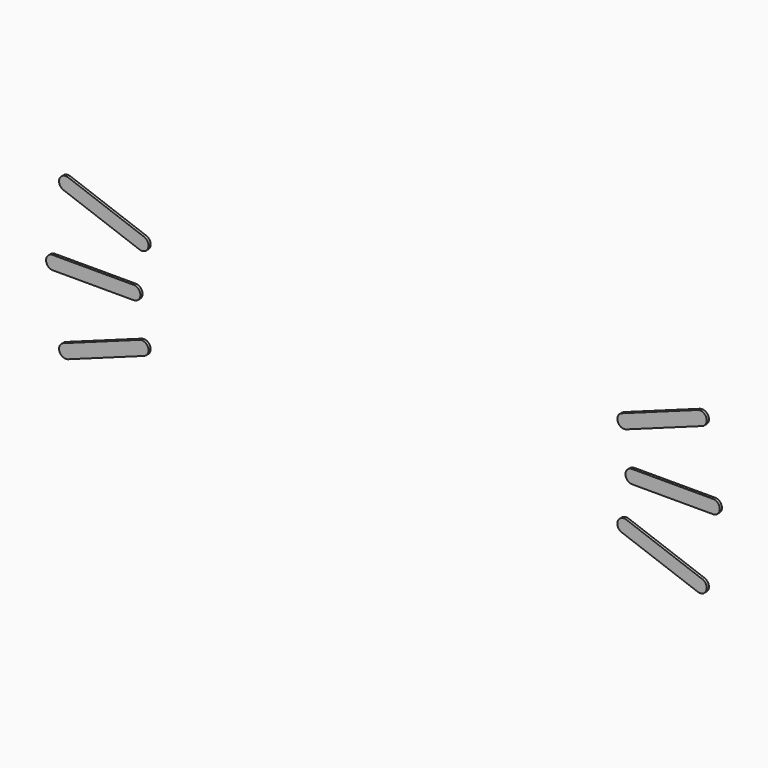
from build123d import *

# Parameters (mm, degrees)
BOX004_W     = 62
BOX004_H     = 12
BOX004_DEPTH = 17
BOX003_W     = 60
BOX003_H     = 15
BOX003_DEPTH = 1
PAD009_DEPTH = 10


with BuildPart() as cube:
    # Box004 → Box004 (new body)
    with BuildSketch(Plane(origin=(-31, -9.8, -12), x_dir=(1, 0, 0), z_dir=(0, 0, 1))):
        with Locations((31, 6)):
            Rectangle(BOX004_W, BOX004_H)
    extrude(amount=BOX004_DEPTH)


with BuildPart() as whiskers:
    # Box003 → Box003 (join)
    with BuildSketch(Plane(origin=(-30, 0, -11), x_dir=(1, 0, 0), z_dir=(0, -1, 0))):
        with Locations((30, 7.5)):
            Rectangle(BOX003_W, BOX003_H)
    extrude(amount=BOX003_DEPTH)

    # Sketch035 → Pad009 (join)
    with BuildSketch(Plane.XZ.offset(10)):
        with BuildLine():
            ThreePointArc((-23.364072, 2.521967), (-24.004928, 2.223131), (-23.706092, 1.582275))
            Line((-23.706092, 1.582275), (-18.067936, -0.469846))
            ThreePointArc((-18.067936, -0.469846), (-17.427074, -0.171012), (-17.725916, 0.469846))
            Line((-23.364072, 2.521967), (-17.725916, 0.469846))
        make_face()
        with BuildLine():
            ThreePointArc((-24.5, -2.920201), (-25, -3.420201), (-24.5, -3.920201))
            Line((-24.5, -3.920201), (-18.5, -3.920201))
            ThreePointArc((-18.5, -3.920201), (-18, -3.420201), (-18.5, -2.920201))
            Line((-24.5, -2.920201), (-18.5, -2.920201))
        make_face()
        with BuildLine():
            ThreePointArc((-23.706092, -8.422678), (-24.004928, -9.063534), (-23.364072, -9.36237))
            Line((-17.725916, -7.310249), (-23.364072, -9.36237))
            ThreePointArc((-17.725916, -7.310249), (-17.427079, -6.669393), (-18.067936, -6.370557))
            Line((-23.706092, -8.422678), (-18.067936, -6.370557))
        make_face()
    pad009 = extrude(amount=-PAD009_DEPTH)

    # Mirrored005: Pad009 across Sketch035 V_Axis
    add(pad009.mirror(Plane(origin=(0, -10, 0), x_dir=(0, -1, 0), z_dir=(1, 0, 0))))

    # Cut: cut Cube
    add(cube.part, mode=Mode.SUBTRACT)


solid = whiskers.part
